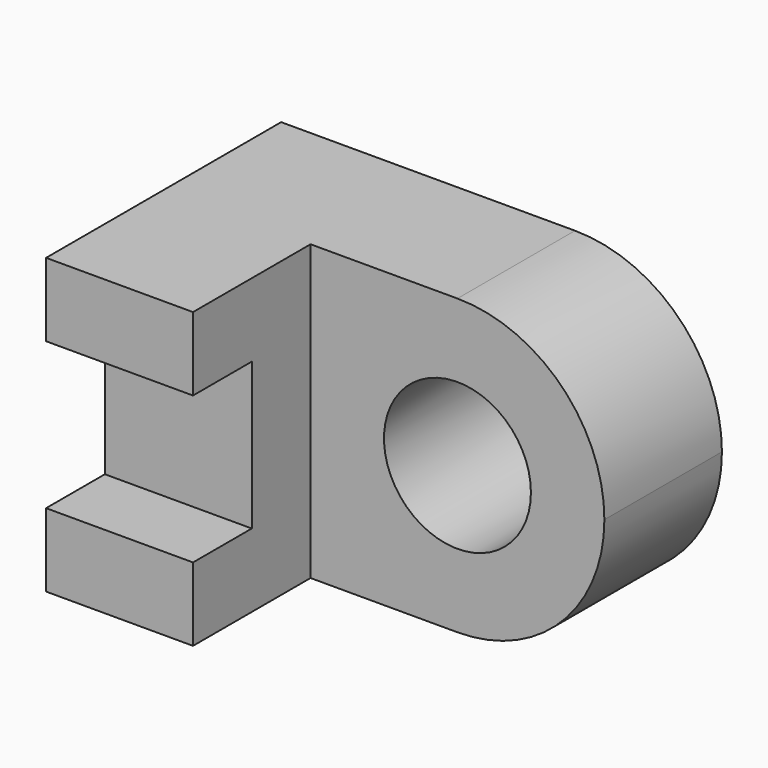
from build123d import *

# Parameters (mm, degrees)
F0_W     = 25.4
F0_H     = 12.7
F0_W_2   = 12.7
F1_DEPTH = 25.4
F2_W     = 6.35
F2_H     = 12.7
F3_DEPTH = 38.101
F4_R     = 6.35
F5_DEPTH = 25.401
F7_DEPTH = 25.401


with BuildPart() as f1:
    # F0 (on Top) → F1 (new body)
    with BuildSketch(Plane.XY):
        with Locations((25.4, -6.35)):
            Rectangle(F0_W, F0_H)
        with Locations((6.35, -19.05)):
            Rectangle(F0_W_2, F0_H)
        with Locations((6.35, -6.35)):
            Rectangle(F0_W_2, F0_H)
    extrude(amount=F1_DEPTH)

    # F2 (on Right) → F3 (cut, through all)
    with BuildSketch(Plane.YZ):
        with Locations((-22.225, 12.7)):
            Rectangle(F2_W, F2_H)
    extrude(amount=F3_DEPTH, mode=Mode.SUBTRACT)

    # F4 (on Front) → F5 (cut, through all)
    with BuildSketch(Plane.XZ):
        with Locations((25.4, 12.7)):
            Circle(F4_R)
    extrude(amount=F5_DEPTH, mode=Mode.SUBTRACT)

    # F6 (on Front) → F7 (cut, through all)
    with BuildSketch(Plane.XZ):
        with BuildLine():
            ThreePointArc((38.1, 12.7), (34.3802561211, 3.7197438789), (25.4, 0))
            Line((25.4, 0), (38.1, 0))
            Line((38.1, 0), (38.1, 12.7))
        make_face()
        with BuildLine():
            Line((38.1, 25.4), (25.4, 25.4))
            ThreePointArc((25.4, 25.4), (34.3802561211, 21.6802561211), (38.1, 12.7))
            Line((38.1, 12.7), (38.1, 25.4))
        make_face()
    extrude(amount=F7_DEPTH, mode=Mode.SUBTRACT)


solid = f1.part
